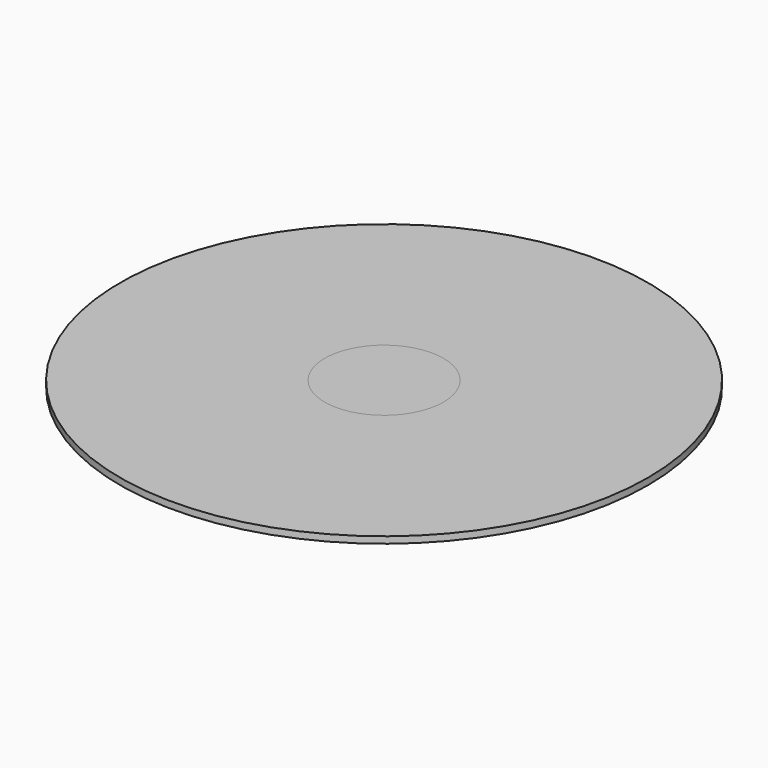
from build123d import *

# Parameters (mm, degrees)
F0_R      = 20
F1_DEPTH  = 0.5
F2_R      = 5
F3_DEPTH  = 5
F4_R      = 4.5
F5_DEPTH  = 25
F6_R      = 4.5
F7_DEPTH  = 5
F8_R      = 1
F9_DEPTH  = 8
F11_DEPTH = 3


with BuildPart() as f1:
    # F0 (on Top) → F1 (new body)
    with BuildSketch(Plane.XY):
        Circle(F0_R)
    extrude(amount=F1_DEPTH)

    # F2 (on face) → F3 (join)
    with BuildSketch(Plane.XY.offset(0.5)):
        Circle(F2_R)
    extrude(amount=-F3_DEPTH)

    # F4 (on face) → F5 (cut)
    with BuildSketch(Plane.XY.offset(0.5)):
        Circle(F4_R)
    extrude(amount=-F5_DEPTH, mode=Mode.SUBTRACT)


with BuildPart() as f7:
    # F6 (on face) → F7 (new body)
    with BuildSketch(Plane.XY.offset(0.5)):
        Circle(F6_R)
    extrude(amount=-F7_DEPTH)

    # F8 (on face) → F9 (join)
    with BuildSketch(Plane.XY.offset(0.5)):
        with Locations((-2, 0)):
            Circle(F8_R)
        with Locations((2, 0)):
            Circle(F8_R)
    extrude(amount=-F9_DEPTH)

    # F10 (on face) → F11 (cut)
    with BuildSketch(Plane(origin=(0, 0, -7.5), x_dir=(1, 0, 0), z_dir=(0, 0, -1))):
        with BuildLine():
            Line((-1.25, 0), (-1, 0))
            ThreePointArc((-1, 0), (-2, 1), (-3, 0))
            Line((-3, 0), (-2.75, 0))
            ThreePointArc((-2.75, 0), (-2, -0.75), (-1.25, 0))
        make_face()
        with BuildLine():
            Line((2.75, 0), (3, 0))
            ThreePointArc((3, 0), (2, 1), (1, 0))
            Line((1, 0), (1.25, 0))
            ThreePointArc((1.25, 0), (2, -0.75), (2.75, 0))
        make_face()
    extrude(amount=-F11_DEPTH, mode=Mode.SUBTRACT)


solid = Compound([f1.part, f7.part])
